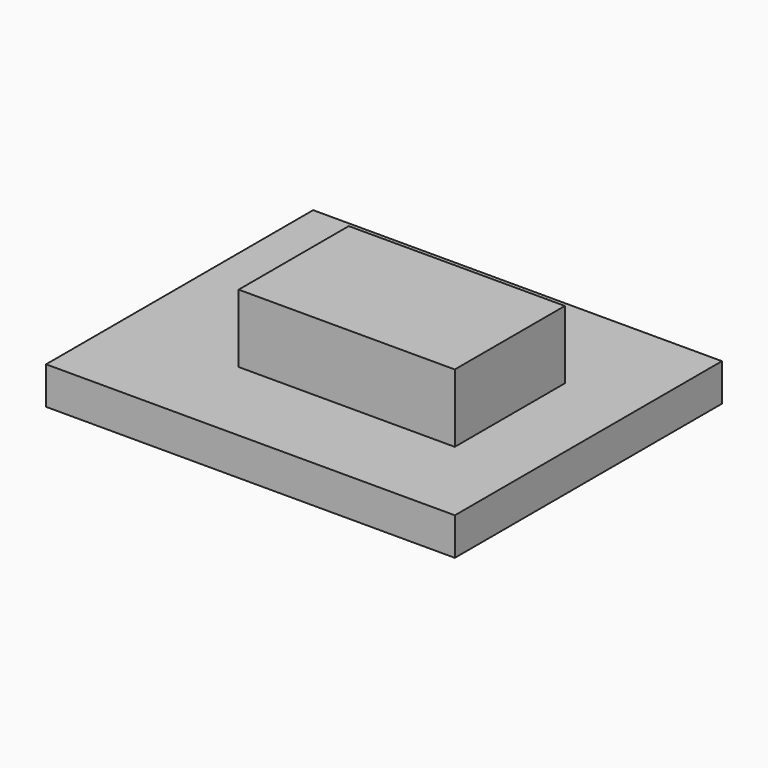
from build123d import *

# Parameters (mm, degrees)
F0_W      = 60
F0_H      = 49
F1_DEPTH  = 2.5
F1_FACE_W = 60
F1_FACE_H = 49
F2_DEPTH  = 3
F3_W      = 31.719639
F3_H      = 20.199234
F4_DEPTH  = 10


with BuildPart() as f1:
    # F0 (on Top) → F1 (new body)
    with BuildSketch(Plane.XY):
        with Locations((-18.378621, 19.452427)):
            Rectangle(F0_W, F0_H)
    extrude(amount=F1_DEPTH)

    # F1_face (on face) → F2 (join)
    with BuildSketch(Plane(origin=(-18.378621, 19.452427, 2.5), x_dir=(1, 0, 0), z_dir=(0, 0, 1))):
        Rectangle(F1_FACE_W, F1_FACE_H)
    extrude(amount=F2_DEPTH)

    # F3 (on face) → F4 (join)
    with BuildSketch(Plane.XY.offset(5.5)):
        with Locations((-14.857512, 18.312792)):
            Rectangle(F3_W, F3_H)
    extrude(amount=F4_DEPTH)


solid = f1.part
